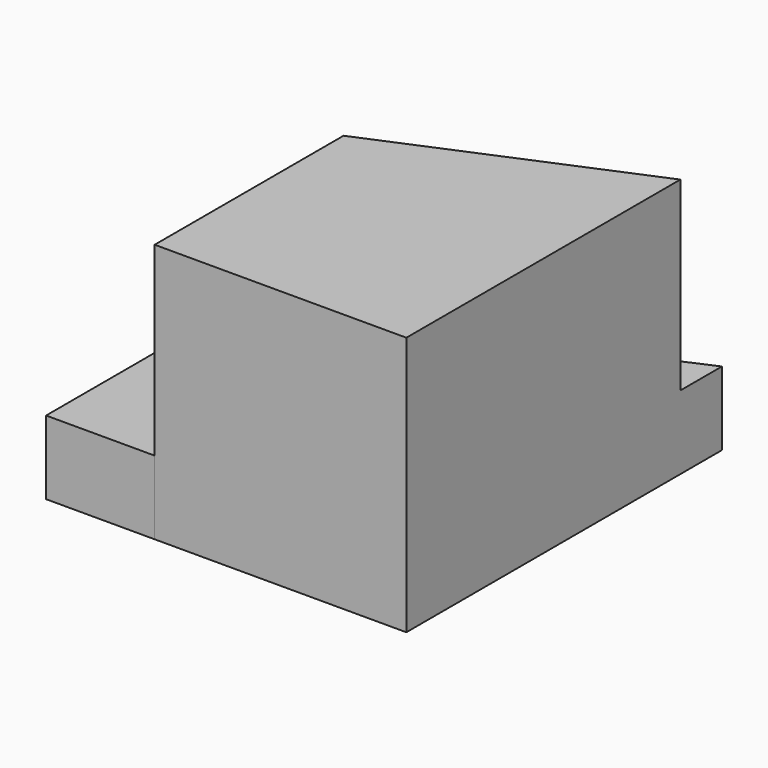
from build123d import *

# Parameters (mm, degrees)
F1_DEPTH = 64.008
F2_W     = 37.431452
F2_H     = 81.391217
F3_DEPTH = 25.4


with BuildPart() as f1:
    # F0 (on Top) → F1 (new body)
    with BuildSketch(Plane.XY):
        Polygon((-43.390859, 22.354396), (-43.390859, -59.036821), (43.390859, -59.036821), (43.390859, 59.036821), align=None)
    extrude(amount=-F1_DEPTH)

    # F2 (on face) → F3 (join)
    with BuildSketch(Plane(origin=(0, 0, -64.008), x_dir=(1, 0, 0), z_dir=(0, 0, -1))):
        with Locations((-62.106585, 18.341212)):
            Rectangle(F2_W, F2_H)
        Polygon((43.390859, -59.036821), (-43.390859, -22.354396), (-80.822311, -22.354396), (43.390859, -76.956891), align=None)
        Polygon((-43.390859, 59.036821), (-43.390859, -22.354396), (43.390859, -59.036821), (43.390859, 59.036821), align=None)
    extrude(amount=F3_DEPTH)


solid = f1.part
